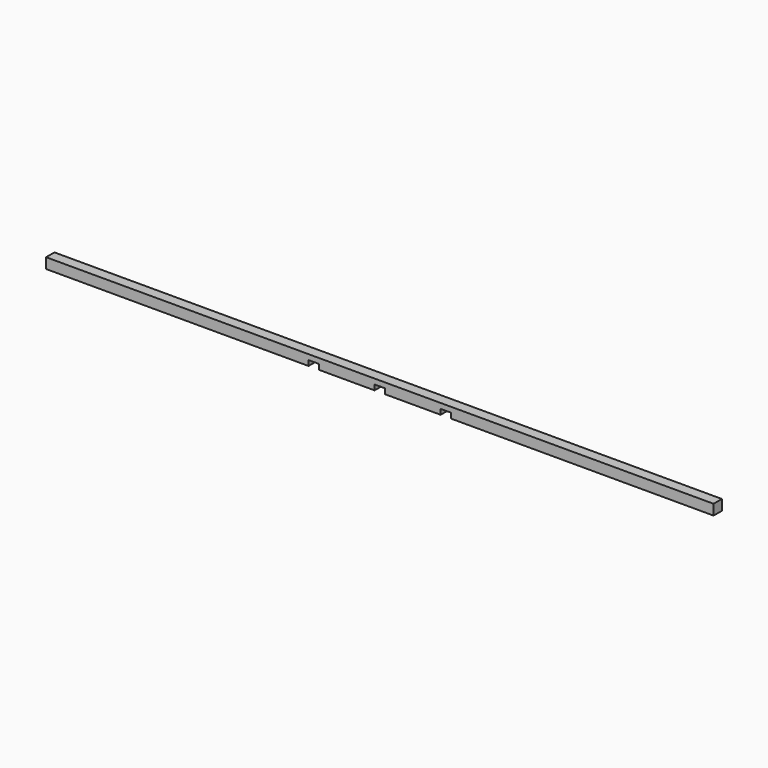
from build123d import *

# Parameters (mm, degrees)
F0_W     = 958.85
F0_H     = 38.1
F1_DEPTH = 19.05
F0_W_2   = 203.2
F2_W     = 2438.4
F2_H     = 38.1
F3_DEPTH = 19.05


with BuildPart() as f1:
    # F0 (on Top) → F1 (new body)
    with BuildSketch(Plane.XY):
        with Locations((-836.5519275119, 19.05)):
            Rectangle(F0_W, F0_H)
    extrude(amount=F1_DEPTH)



with BuildPart() as f1b:
    # F0 (on Top) → F1, piece 2 (new body)
    with BuildSketch(Plane.XY):
        with Locations((23.8730724881, 19.05)):
            Rectangle(F0_W_2, F0_H)
    extrude(amount=F1_DEPTH)


with BuildPart() as f1c:
    # F0 (on Top) → F1, piece 3 (new body)
    with BuildSketch(Plane.XY):
        with Locations((-217.4269275119, 19.05)):
            Rectangle(F0_W_2, F0_H)
    extrude(amount=F1_DEPTH)


with BuildPart() as f1d:
    # F0 (on Top) → F1, piece 4 (new body)
    with BuildSketch(Plane.XY):
        with Locations((642.9980724881, 19.05)):
            Rectangle(F0_W, F0_H)
    extrude(amount=F1_DEPTH)


with BuildPart() as f1_1:
    add(f1.part)

    add(f1b.part)  # F3 merges F1b

    add(f1c.part)  # F3 merges F1c

    add(f1d.part)  # F3 merges F1d
    # F2 (on face) → F3 (join)
    with BuildSketch(Plane.XY.offset(19.05)):
        with Locations((-96.7769275119, 19.05)):
            Rectangle(F2_W, F2_H)
    extrude(amount=F3_DEPTH)


solid = f1_1.part
